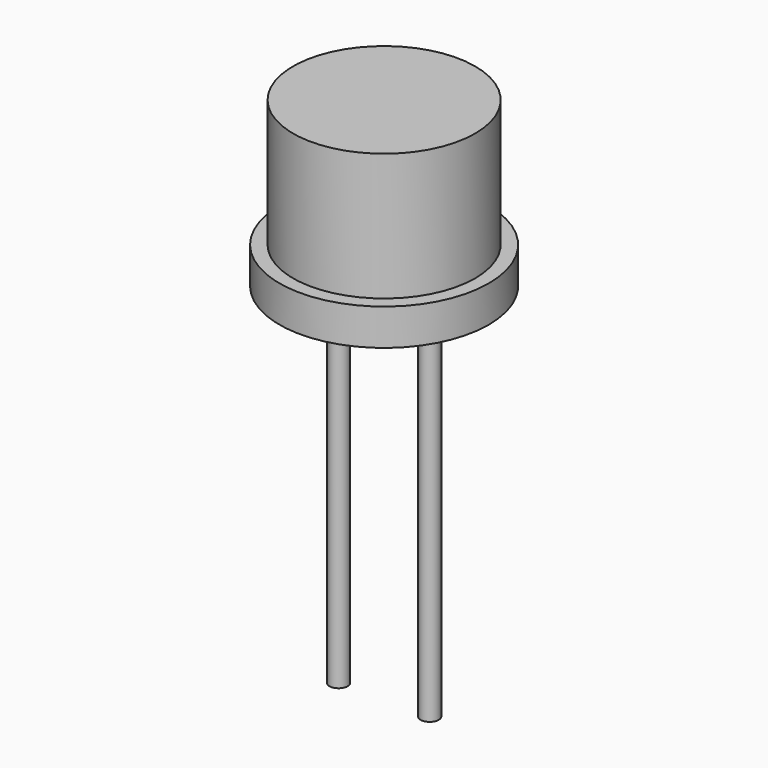
from build123d import *

# Parameters (mm, degrees)
F0_R     = 2.5
F0_R_2   = 0.25
F1_DEPTH = 4.5
F0_R_3   = 2.875
F2_DEPTH = 1
F3_DEPTH = 10


with BuildPart() as f1:
    # F0 (on Top) → F1 (new body)
    with BuildSketch(Plane.XY):
        Circle(F0_R)
        with Locations((-1.25, 0)):
            Circle(F0_R_2, mode=Mode.SUBTRACT)
        with Locations((1.25, 0)):
            Circle(F0_R_2, mode=Mode.SUBTRACT)
        with Locations((-1.25, 0)):
            Circle(F0_R_2)
        with Locations((1.25, 0)):
            Circle(F0_R_2)
    extrude(amount=F1_DEPTH)

    # F0 (on Top) → F2 (join)
    with BuildSketch(Plane.XY):
        Circle(F0_R_3)
        Circle(F0_R, mode=Mode.SUBTRACT)
    extrude(amount=F2_DEPTH)

    # F0 (on Top) → F3 (join)
    with BuildSketch(Plane.XY):
        with Locations((-1.25, 0)):
            Circle(F0_R_2)
        with Locations((1.25, 0)):
            Circle(F0_R_2)
    extrude(amount=-F3_DEPTH)


solid = f1.part
